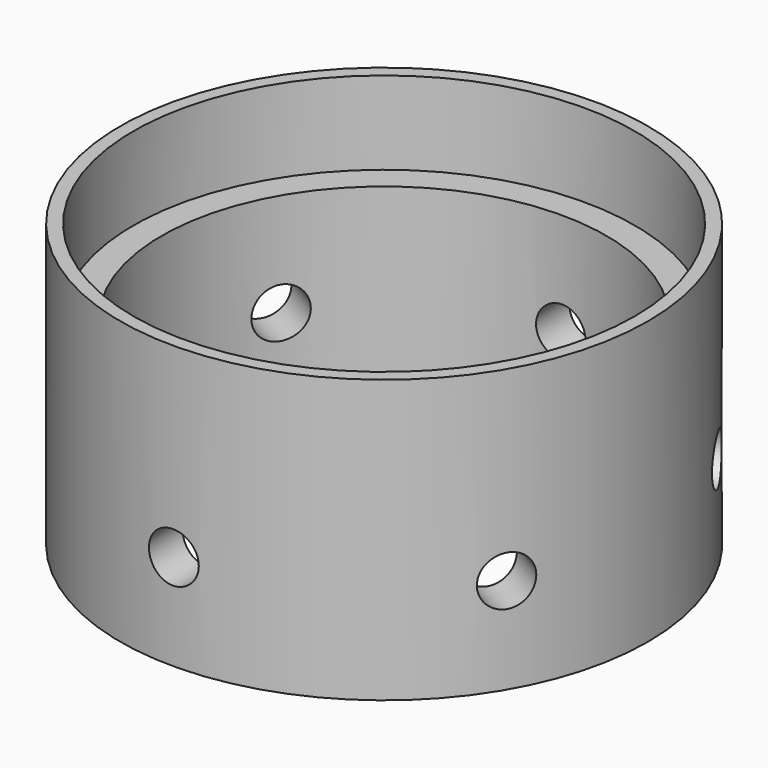
from build123d import *

# Parameters (mm, degrees)
F0_R     = 15.9
F0_R_2   = 13.4
F1_DEPTH = 12
F2_R     = 1.5
F3_DEPTH = 50
F5_COUNT = 3
F7_R     = 15.9
F7_R_2   = 15.1
F8_DEPTH = 5


with BuildPart() as f1:
    # F0 (on Top) → F1 (new body)
    with BuildSketch(Plane.XY):
        Circle(F0_R)
        Circle(F0_R_2, mode=Mode.SUBTRACT)
    extrude(amount=F1_DEPTH)


with BuildPart() as f3:
    # F2 (on Front) → F3 (new body)
    with BuildSketch(Plane.XZ):
        with Locations((0, 5.772834)):
            Circle(F2_R)
    extrude(amount=F3_DEPTH)


with BuildPart() as f3_1:
    # F4: moved
    add(f3.part.moved(Location((0, 25.2, 0))))


with BuildPart() as f5_1:
    # F5: instance of F3
    add(f3_1.part.rotate(Axis((0, 0, 0), (0, 0, -1)), 1 * 360 / F5_COUNT))


with BuildPart() as f5_2:
    # F5: instance of F3
    add(f3_1.part.rotate(Axis((0, 0, 0), (0, 0, -1)), 2 * 360 / F5_COUNT))


with BuildPart() as f1_1:
    add(f1.part)

    # F6: cut F5_1, F3, F5_2
    add(f5_1.part, mode=Mode.SUBTRACT)
    add(f3_1.part, mode=Mode.SUBTRACT)
    add(f5_2.part, mode=Mode.SUBTRACT)

    # F7 (on face) → F8 (join)
    with BuildSketch(Plane.XY.offset(12)):
        Circle(F7_R)
        Circle(F7_R_2, mode=Mode.SUBTRACT)
    extrude(amount=F8_DEPTH)


solid = f1_1.part
